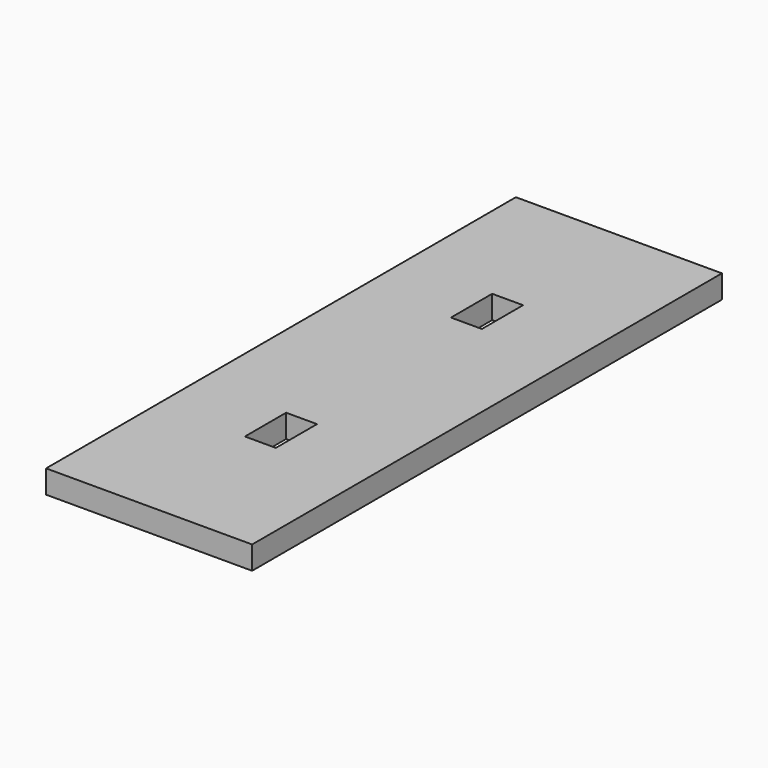
from build123d import *

# Parameters (mm, degrees)
F0_W     = 40
F0_H     = 114
F1_DEPTH = 4.5
F2_W     = 6
F2_H     = 10
F3_DEPTH = 4.5


with BuildPart() as f1:
    # F0 (on Top) → F1 (new body)
    with BuildSketch(Plane.XY):
        Rectangle(F0_W, F0_H)
    extrude(amount=F1_DEPTH)

    # F2 (on face) → F3 (cut, through all)
    with BuildSketch(Plane.XY.offset(4.5)):
        with Locations((0, 25)):
            Rectangle(F2_W, F2_H)
        with Locations((0, -25)):
            Rectangle(F2_W, F2_H)
    extrude(amount=-F3_DEPTH, mode=Mode.SUBTRACT)


solid = f1.part
